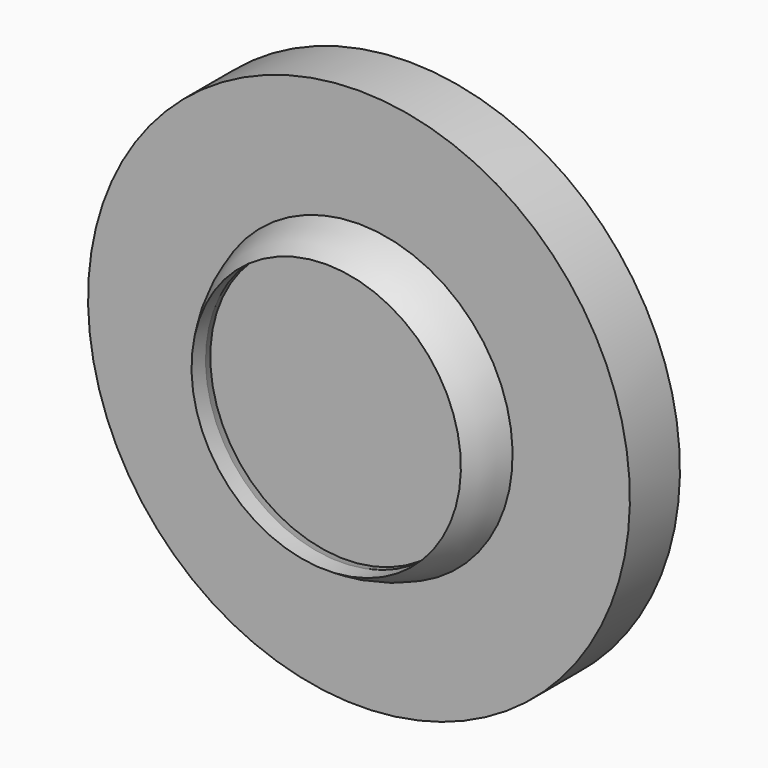
from build123d import *

# Parameters (mm, degrees)
F0_R     = 11
F1_DEPTH = 8


with BuildPart() as f1:
    # F0 (on Front) → F1 (new body)
    with BuildSketch(Plane.XZ):
        Circle(F0_R)
    extrude(amount=F1_DEPTH)


with BuildPart() as f3:
    # F2 (on Right) → F3 (revolve)
    with BuildSketch(Plane.YZ):
        with BuildLine():
            ThreePointArc((-6.57069, 12.546594), (-4.015492, 12.869253), (-1.460605, 12.544144))
            Line((-1.460605, 12.544144), (-1.460605, 22.12516))
            Line((-1.460605, 22.12516), (-6.57069, 22.12516))
            Line((-6.57069, 22.12516), (-6.57069, 12.546594))
        make_face()
        with BuildLine():
            Line((0.294825, 11.110836), (1.717225, 11.110836))
            ThreePointArc((1.717225, 11.110836), (0.189753, 11.963717), (-1.460605, 12.544144))
            Line((-1.460605, 12.544144), (-6.57069, 12.544144))
            Line((-6.57069, 12.544144), (-6.57069, 12.546594))
            ThreePointArc((-6.57069, 12.546594), (-8.314357, 11.925466), (-9.917721, 11.000588))
            Line((-9.917721, 11.000588), (-8.495321, 11.000588))
            ThreePointArc((-8.495321, 11.000588), (-4.113239, 12.091447), (0.294825, 11.110836))
        make_face()
    revolve(axis=Axis((0, -8, 0), (0, -1, 0)))


solid = Compound([f1.part, f3.part])
